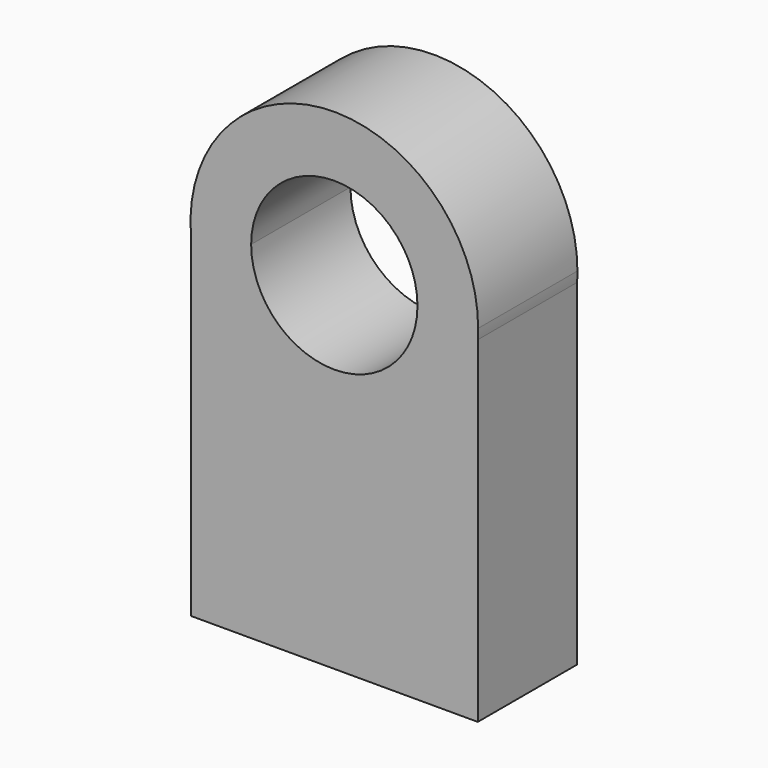
from build123d import *

# Parameters (mm, degrees)
F1_DEPTH = 25.4


with BuildPart() as f1:
    # F0 (on Front) → F1 (new body)
    with BuildSketch(Plane.XZ):
        with BuildLine():
            ThreePointArc((-29.36328, 33.386896), (0, 6.035167), (29.36328, 33.386896))
            Line((29.36328, 33.386896), (29.36328, 35.472415))
            Line((29.36328, 35.472415), (17.021102, 35.472415))
            ThreePointArc((17.021102, 35.472415), (0, 18.451314), (-17.021102, 35.472415))
            Line((-17.021102, 35.472415), (-29.36328, 35.472415))
            Line((-29.36328, 35.472415), (-29.36328, 33.386896))
        make_face()
        with BuildLine():
            Line((-29.36328, -35.472415), (29.36328, -35.472415))
            Line((29.36328, -35.472415), (29.36328, 33.386896))
            ThreePointArc((29.36328, 33.386896), (0, 6.035167), (-29.36328, 33.386896))
            Line((-29.36328, 33.386896), (-29.36328, -35.472415))
        make_face()
        with BuildLine():
            Line((29.36328, 35.472415), (29.36328, 33.386896))
            ThreePointArc((29.36328, 33.386896), (29.418751, 34.429), (29.437249, 35.472415))
            ThreePointArc((29.437249, 35.472415), (-1.043415, 64.891166), (-29.36328, 33.386896))
            Line((-29.36328, 33.386896), (-29.36328, 35.472415))
            Line((-29.36328, 35.472415), (-17.021102, 35.472415))
            ThreePointArc((-17.021102, 35.472415), (0, 52.493517), (17.021102, 35.472415))
            Line((17.021102, 35.472415), (29.36328, 35.472415))
        make_face()
    extrude(amount=F1_DEPTH)


solid = f1.part
